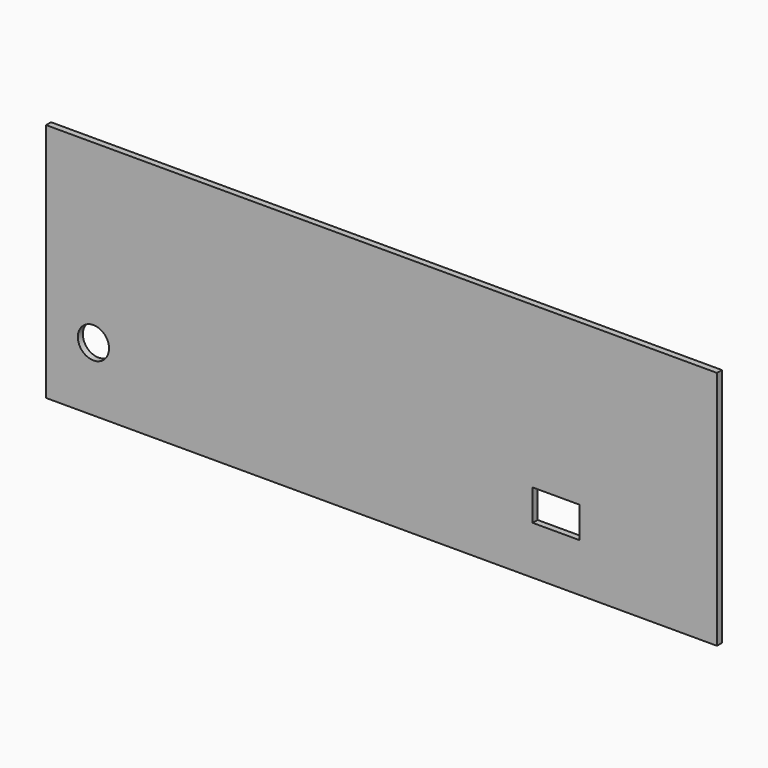
from build123d import *

# Parameters (mm, degrees)
F0_W     = 215
F0_H     = 77
F0_R     = 5
F0_W_2   = 15
F0_H_2   = 10
F1_DEPTH = 1


with BuildPart() as f1:
    # F0 (on Front) → F1 (new body, symmetric)
    with BuildSketch(Plane.XZ):
        with Locations((107.5, 38.5)):
            Rectangle(F0_W, F0_H)
        with Locations((15.180312, 20.52632)):
            Circle(F0_R, mode=Mode.SUBTRACT)
        with Locations((163.447581, 20.488305)):
            Rectangle(F0_W_2, F0_H_2, mode=Mode.SUBTRACT)
    extrude(amount=F1_DEPTH, both=True)


solid = f1.part
